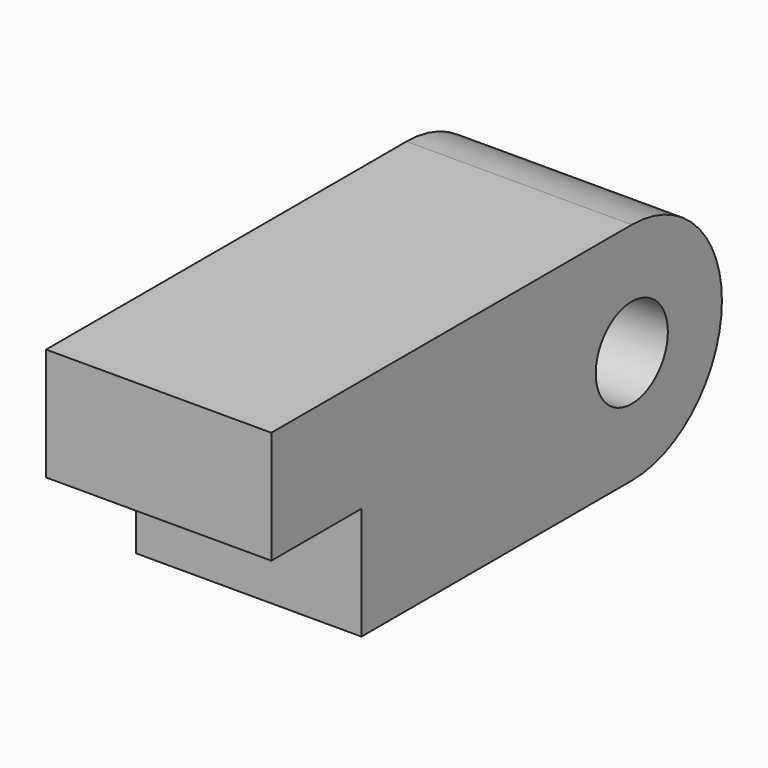
from build123d import *

# Parameters (mm, degrees)
SKETCH_W     = 10
SKETCH_H     = 20
PAD_DEPTH    = 5
SKETCH001_W  = 10
SKETCH001_H  = 25
PAD001_DEPTH = 5
SKETCH002_R  = 2
POCKET_DEPTH = 10


with BuildPart() as part:
    # Sketch → Pad (new body)
    with BuildSketch(Plane.XY):
        with Locations((5, 15)):
            Rectangle(SKETCH_W, SKETCH_H)
    extrude(amount=PAD_DEPTH)

    # Sketch001 → Pad001 (new body)
    with BuildSketch(Plane.XY.offset(5)):
        with Locations((5, 12.5)):
            Rectangle(SKETCH001_W, SKETCH001_H)
    extrude(amount=PAD001_DEPTH)

    # Sketch002 → Pocket (cut)
    with BuildSketch(Plane.YZ.offset(10)):
        with Locations((20, 5)):
            Circle(SKETCH002_R)
        with BuildLine():
            ThreePointArc((25, 5), (23.535534, 8.535534), (20, 10))
            Line((20, 10), (25, 10))
            Line((25, 10), (25, 5))
        make_face()
        with BuildLine():
            ThreePointArc((20.00002, 0), (23.535546, 1.464468), (25, 5))
            Line((25, 0), (25, 5))
            Line((20.00002, 0), (25, 0))
        make_face()
    extrude(amount=-POCKET_DEPTH, mode=Mode.SUBTRACT)


solid = part.part
